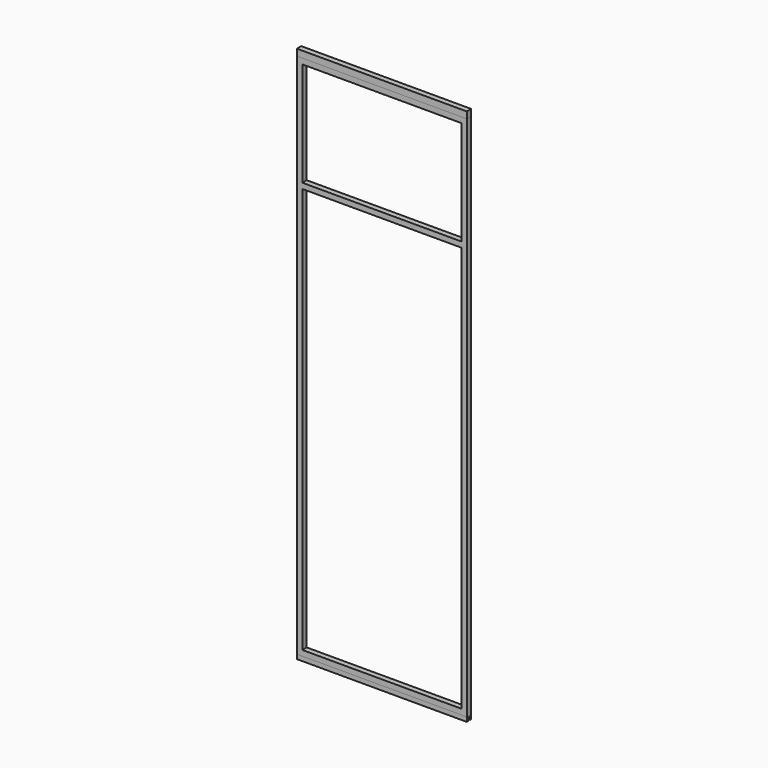
from build123d import *

# Parameters (mm, degrees)
F0_W     = 725
F0_H     = 1850
F0_H_2   = 475
F1_DEPTH = 25
F2_W     = 775.028976
F2_H     = 20
F3_DEPTH = 25
F4_W     = 12
F4_H     = 15
F5_DEPTH = 775.029975
F6_W     = 775
F6_H     = 30
F7_DEPTH = 25


with BuildPart() as f1:
    # F0 (on Front) → F1 (new body)
    with BuildSketch(Plane.XZ):
        Polygon((-697.048871, 738.441594), (-1472.048871, 738.441594), (-1472.048871, 238.441594), (-1472.048871, -1661.558406), (-697.048871, -1661.558406), (-697.048871, -1636.558406), (-697.048871, 213.441594), (-697.048871, 238.441594), (-697.048871, 713.441594), align=None)
        with Locations((-1084.548871, -711.558406)):
            Rectangle(F0_W, F0_H, mode=Mode.SUBTRACT)
        with Locations((-1084.548871, 475.941594)):
            Rectangle(F0_W, F0_H_2, mode=Mode.SUBTRACT)
    extrude(amount=F1_DEPTH)


with BuildPart() as f3:
    # F2 (on face) → F3 (new body)
    with BuildSketch(Plane(origin=(0, 0, 0), x_dir=(-1, 0, 0), z_dir=(0, 1, 0))):
        with Locations((1084.563359, -1671.558406)):
            Rectangle(F2_W, F2_H)
    extrude(amount=-F3_DEPTH)

    # F4 (on face) → F5 (cut, through all)
    with BuildSketch(Plane(origin=(-1472.077847, 0, 0), x_dir=(0, -1, 0), z_dir=(-1, 0, 0))):
        with Locations((12.5, -1674.058406)):
            Rectangle(F4_W, F4_H)
    extrude(amount=-F5_DEPTH, mode=Mode.SUBTRACT)


with BuildPart() as f7:
    # F6 (on face) → F7 (new body)
    with BuildSketch(Plane.XZ.offset(25)):
        with Locations((-1084.548871, 753.441594)):
            Rectangle(F6_W, F6_H)
    extrude(amount=-F7_DEPTH)


solid = Compound([f1.part, f3.part, f7.part])
